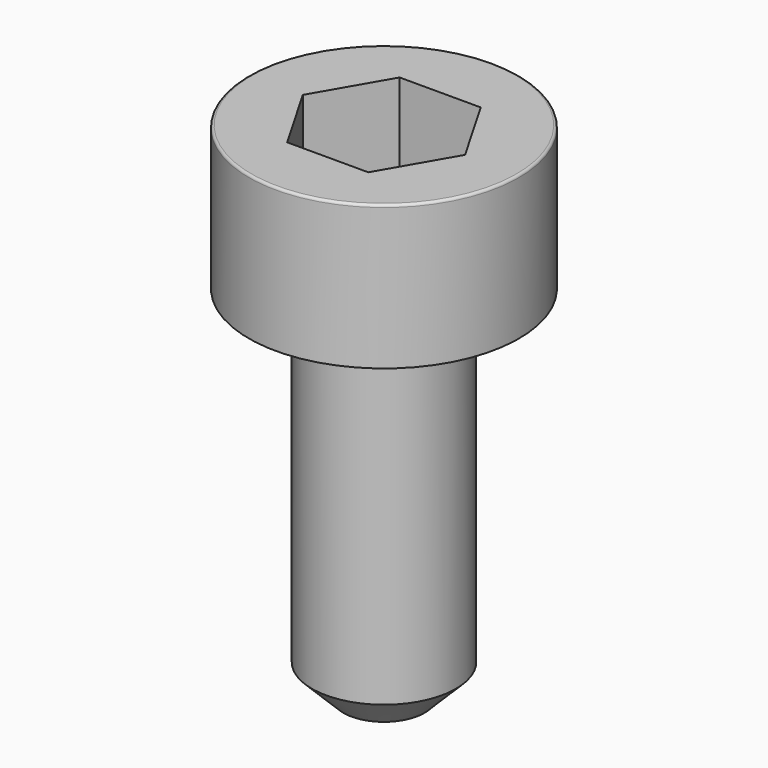
from build123d import *

# Parameters (mm, degrees)
POCKET_DEPTH = 1.56


with BuildPart() as part:
    # Sketch → Revolve (revolve)
    with BuildSketch(Plane.YZ):
        with BuildLine():
            Line((0.799, 0), (1.5, 0))
            Line((1.5, 0), (1.5, 1.57229))
            ThreePointArc((1.5, 1.57229), (1.491884, 1.591884), (1.47229, 1.6))
            Line((1.47229, 1.6), (0, 1.6))
            Line((0, -4), (0, 1.6))
            Line((0.45, -4), (0, -4))
            Line((0.8, -3.65), (0.45, -4))
            Line((0.8, -0.2), (0.8, -3.65))
            Line((0.799, 0), (0.8, -0.2))
        make_face()
    revolve(axis=Axis((0, 0, 0), (0, 0, 1)))

    # Sketch001 → Pocket (cut)
    with BuildSketch(Plane.XY.offset(1.6)):
        Polygon((0.900666, 0), (0.450333, 0.78), (-0.450333, 0.78), (-0.900666, 0), (-0.450333, -0.78), (0.450333, -0.78), align=None)
    extrude(amount=-POCKET_DEPTH, mode=Mode.SUBTRACT)


solid = part.part
